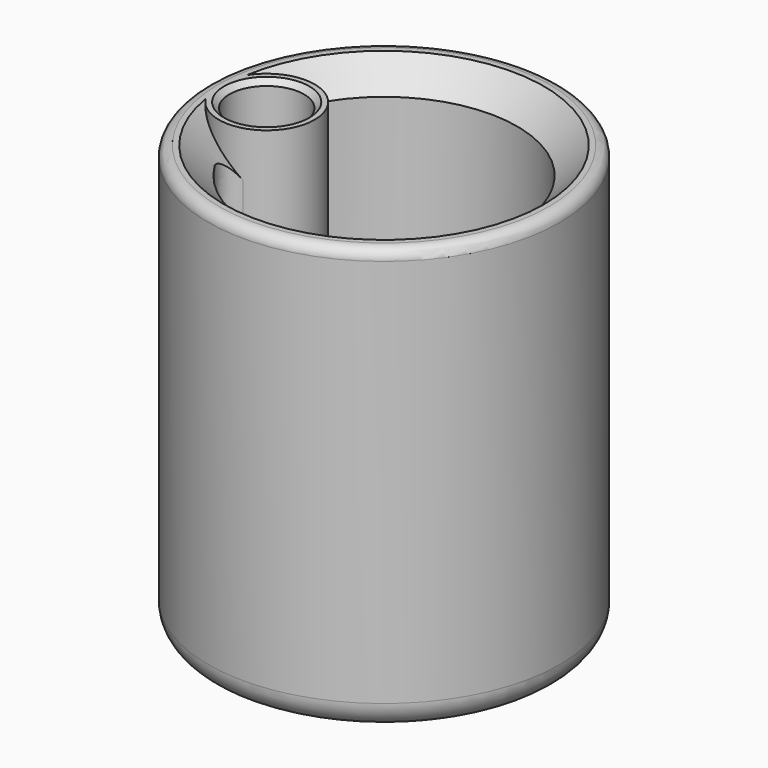
from build123d import *

# Parameters (mm, degrees)
SKETCH_R            = 33
PAD_DEPTH           = 80
HOLE_D              = 50
HOLE_DEPTH          = 70
HOLE_CSINK_D        = 60
HOLE_CSINK_ANGLE    = 90
SKETCH002_R         = 9
PAD001_DEPTH        = 80
HOLE001_D           = 14
HOLE001_DEPTH       = 65.875644
HOLE001_CSINK_D     = 16
HOLE001_CSINK_ANGLE = 90
HOLE001_TIPS_R      = 7
FILLET_R            = 3
FILLET001_R         = 2
FILLET002_R         = 5


with BuildPart() as part:
    # Sketch → Pad (new body)
    with BuildSketch(Plane.XY):
        Circle(SKETCH_R)
    extrude(amount=PAD_DEPTH)

    # Hole
    with Locations(Plane.XY.offset(80)):
        with Locations((0, 0)):
            CounterSinkHole(HOLE_D / 2, HOLE_CSINK_D / 2, depth=HOLE_DEPTH, counter_sink_angle=HOLE_CSINK_ANGLE)

    # Sketch002 (on Face3 of Hole) → Pad001 (join)
    with BuildSketch(Plane.XY.offset(80)):
        with Locations((-22, 0)):
            Circle(SKETCH002_R)
    extrude(amount=-PAD001_DEPTH)

    # Hole001
    with Locations(Plane.XY.offset(80)):
        with Locations((-22, 0)):
            CounterSinkHole(HOLE001_D / 2, HOLE001_CSINK_D / 2, depth=HOLE001_DEPTH, counter_sink_angle=HOLE001_CSINK_ANGLE)

    # Hole001 tips → Hole001 tip 1 section 0
    with BuildSketch(Plane.XY.offset(14.124356), mode=Mode.PRIVATE) as hole001_tip_1_s0:
        with Locations((-22, 0)):
            Circle(HOLE001_TIPS_R)
    loft([hole001_tip_1_s0.sketch, Vertex(-22, 0, 2)], mode=Mode.SUBTRACT)

    # Fillet
    fillet_edges = [part.edges().sort_by_distance(p)[0] for p in [
        (-23.363636, -8.896094, 42.5),
        (-23.363636, 8.896094, 42.5),
    ]]
    fillet(fillet_edges, radius=FILLET_R)

    # Fillet001
    fillet001_edges = [part.edges().sort_by_distance(p)[0] for p in [
        (-33, 0, 80),
    ]]
    fillet(fillet001_edges, radius=FILLET001_R)

    # Fillet002
    fillet002_edges = [part.edges().sort_by_distance(p)[0] for p in [
        (-33, 0, 0),
    ]]
    fillet(fillet002_edges, radius=FILLET002_R)


solid = part.part
